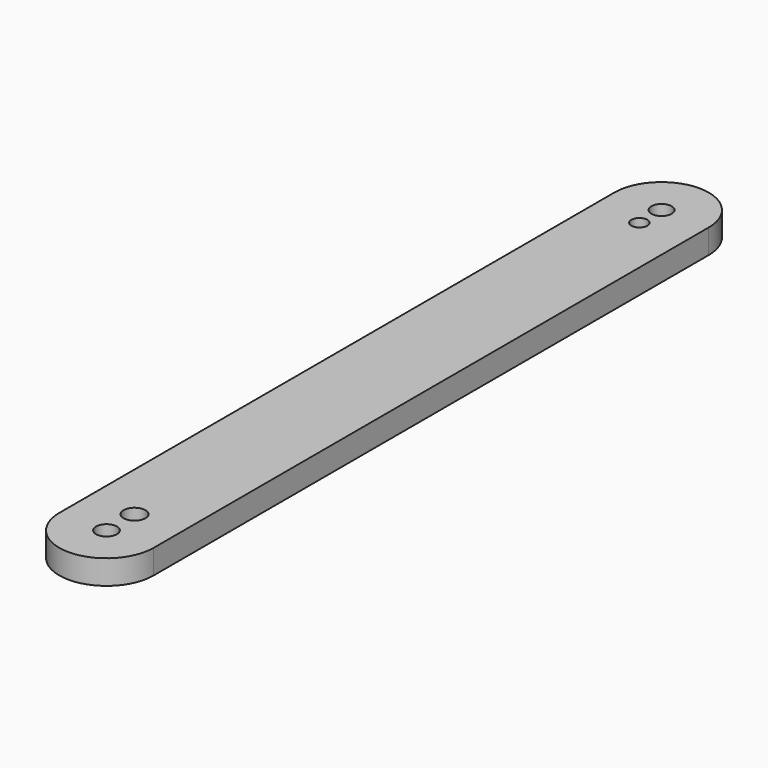
from build123d import *

# Parameters (mm, degrees)
F0_R     = 1.200083
F0_R_2   = 1.256805
F0_R_3   = 0.921852
F0_R_4   = 1.171559
F1_DEPTH = 2.794


with BuildPart() as f1:
    # F0 (on Top) → F1 (new body)
    with BuildSketch(Plane.XY):
        with BuildLine():
            Line((5.423036, -39.026435), (5.423036, 40.641751))
            ThreePointArc((5.423036, 40.641751), (0, 46.064787), (-5.423036, 40.641751))
            Line((-5.423036, 40.641751), (-5.423036, -39.026435))
            ThreePointArc((-5.423036, -39.026435), (0, -44.449471), (5.423036, -39.026435))
        make_face()
        with Locations((0, -39.026435)):
            Circle(F0_R, mode=Mode.SUBTRACT)
        with Locations((0, -35.004832)):
            Circle(F0_R_2, mode=Mode.SUBTRACT)
        with Locations((0, 37.469007)):
            Circle(F0_R_3, mode=Mode.SUBTRACT)
        with Locations((0, 40.641751)):
            Circle(F0_R_4, mode=Mode.SUBTRACT)
    extrude(amount=F1_DEPTH)


solid = f1.part
